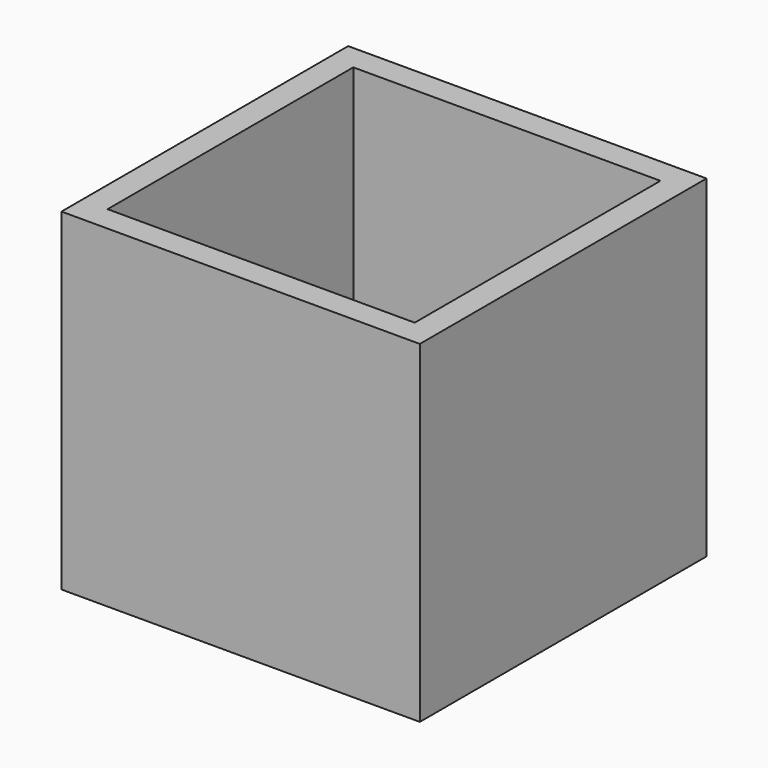
from build123d import *

# Parameters (mm, degrees)
F0_W     = 304.8
F0_H     = 304.8
F1_DEPTH = 25.4
F2_W     = 304.8
F2_H     = 330.2
F3_DEPTH = 25.4
F5_W     = 355.6
F5_H     = 330.2
F6_DEPTH = 25.4
F7_W     = 355.6
F7_H     = 330.2
F8_DEPTH = 25.4


with BuildPart() as f1:
    # F0 (on Top) → F1 (new body)
    with BuildSketch(Plane.XY):
        Rectangle(F0_W, F0_H)
    extrude(amount=F1_DEPTH)

    # F2 (on face) → F3 (join)
    with BuildSketch(Plane.XZ.offset(152.4)):
        with Locations((0, 165.1)):
            Rectangle(F2_W, F2_H)
    extrude(amount=F3_DEPTH)

    # F4: F1 across plane


with BuildPart() as f1_1:
    add(f1.part)
    add(f1.part.mirror(Plane.XZ))

    # F5 (on face) → F6 (join)
    with BuildSketch(Plane(origin=(-152.4, 0, 0), x_dir=(0, -1, 0), z_dir=(-1, 0, 0))):
        with Locations((0, 165.1)):
            Rectangle(F5_W, F5_H)
    extrude(amount=F6_DEPTH)

    # F7 (on face) → F8 (join)
    with BuildSketch(Plane.YZ.offset(152.4)):
        with Locations((0, 165.1)):
            Rectangle(F7_W, F7_H)
    extrude(amount=F8_DEPTH)


solid = f1_1.part
